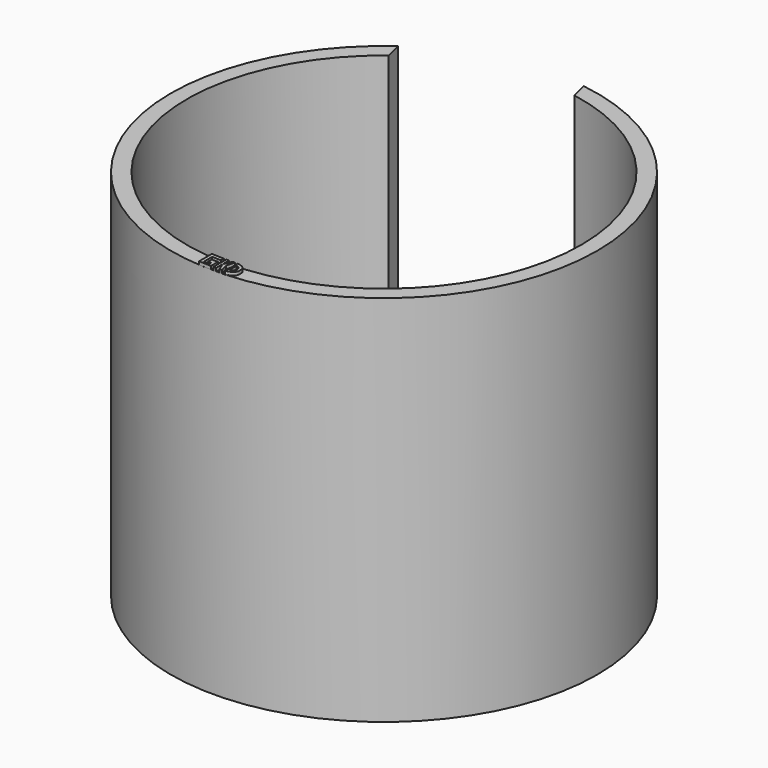
from build123d import *

# Parameters (mm, degrees)
F1_DEPTH = 88.9
F2_R     = 48.26
F3_DEPTH = 8.89
F5_D     = 9
F7_DEPTH = 0.762


with BuildPart() as f1:
    # F0 (on Top) → F1 (new body)
    with BuildSketch(Plane.XY):
        with BuildLine():
            Line((-28.68547828, 37.218321239), (-29.6658445271, 41.2380609206))
            ThreePointArc((-29.6658445271, 41.2380609206), (12.0367010673, -49.353397324), (7.3492034658, 50.2655867211))
            Line((7.3492034658, 50.2655867211), (8.3295697129, 46.2458470395))
            ThreePointArc((8.3295697129, 46.2458470395), (11.1339484873, -45.6518925247), (-28.68547828, 37.218321239))
        make_face()
    extrude(amount=F1_DEPTH)

    # F2 (on Top) → F3 (join)
    with BuildSketch(Plane.XY):
        Circle(F2_R)
    extrude(amount=F3_DEPTH)

    # F5 (through all)
    with Locations(Plane(origin=(0, 0, 0), x_dir=(1, 0, 0), z_dir=(0, 0, -1))):
        with Locations((0, 36.83), (-36.83, 0), (0, -36.83), (36.83, 0)):
            Hole(F5_D / 2)


with BuildPart() as f7:
    # F6 (on face) → F7 (new body)
    with BuildSketch(Plane.XY.offset(88.9)):
        with BuildLine():
            ThreePointArc((0.6461914164, -46.9855566813), (0.3231033463, -46.9888891572), (0, -46.99))
            Line((0, -46.99), (0, -50.8))
            Line((0, -50.8), (0.6461914164, -50.7958899583))
            Line((0.6461914164, -50.7958899583), (0.6461914164, -48.8907233198))
            Line((0.6461914164, -48.8907233198), (0.6461914164, -46.9855566813))
        make_face()
    extrude(amount=F7_DEPTH)


with BuildPart() as f7b:
    # F6 (on face) → F7, piece 2 (new body)
    with BuildSketch(Plane.XY.offset(88.9)):
        with BuildLine():
            Line((1.5069042188, -46.9658316191), (0.6461914164, -48.8907233198))
            Line((0.6461914164, -48.8907233198), (1.451614004, -50.7792557722))
            ThreePointArc((1.451614004, -50.7792557722), (1.7437320687, -50.7700639991), (2.035792417, -50.7591917709))
            Line((2.035792417, -50.7591917709), (1.5069042188, -48.8907233198))
            Line((1.5069042188, -48.8907233198), (2.035792417, -46.9458800028))
            ThreePointArc((2.035792417, -46.9458800028), (1.7713764083, -46.9566004479), (1.5069042188, -46.9658316191))
        make_face()
    extrude(amount=F7_DEPTH)


with BuildPart() as f7c:
    # F6 (on face) → F7, piece 3 (new body)
    with BuildSketch(Plane.XY.offset(88.9)):
        with BuildLine():
            add(Edge.make_bspline(
                [(2.7142217515, -46.9115454903), (4.7447532395, -47.3297142611), (4.6868859793, -48.6920135127), (4.8192192328, -50.1168521009), (2.7142217515, -50.7274383375)],
                knots=[0, 0, 0, 0, 0.4916609991, 1, 1, 1, 1], degree=3))
            Line((2.7142217515, -46.9115454903), (2.7142217515, -50.7274383375))
        make_face()
        with BuildLine():
            Line((3.098138608, -49.8390160501), (3.098138608, -47.7703511715))
            add(Edge.make_bspline(
                [(3.098138608, -47.7703511715), (3.9159837179, -47.9146763682), (4.1823109655, -48.5740996123), (3.9640921168, -49.7909076512), (3.098138608, -49.8390160501)],
                knots=[0, 0, 0, 0, 0.4844529906, 1, 1, 1, 1], degree=3))
        make_face(mode=Mode.SUBTRACT)
    extrude(amount=F7_DEPTH)


with BuildPart() as f7d:
    # F6 (on face) → F7, piece 4 (new body)
    with BuildSketch(Plane.XY.offset(88.9)):
        with BuildLine():
            Line((-0.5524637425, -47.8416590199), (-0.5524637425, -46.9867522161))
            ThreePointArc((-0.5524637425, -46.9867522161), (-2.0255783554, -46.9463218189), (-3.4967007439, -46.8597181373))
            Line((-3.4967007439, -46.8597181373), (-3.4967007439, -50.6795134537))
            Line((-3.4967007439, -50.6795134537), (-0.6025040187, -50.7964269305))
            Line((-0.6025040187, -50.7964269305), (-0.6025040187, -48.6763324173))
            Line((-0.6025040187, -48.6763324173), (-2.0981333219, -48.6763324173))
            Line((-2.0981333219, -48.6763324173), (-2.0981333219, -49.7363796739))
            Line((-2.0981333219, -49.7363796739), (-1.3566303918, -49.7363796739))
            Line((-1.3566303918, -49.7363796739), (-1.3566303918, -50.2853654972))
            Line((-1.3566303918, -50.2853654972), (-2.7167940665, -50.2853654972))
            Line((-2.7167940665, -50.2853654972), (-2.7167940665, -47.7542291017))
            Line((-2.7167940665, -47.7542291017), (-0.5524637425, -47.8416590199))
        make_face()
    extrude(amount=F7_DEPTH)


solid = Compound([f1.part, f7.part, f7b.part, f7c.part, f7d.part])
